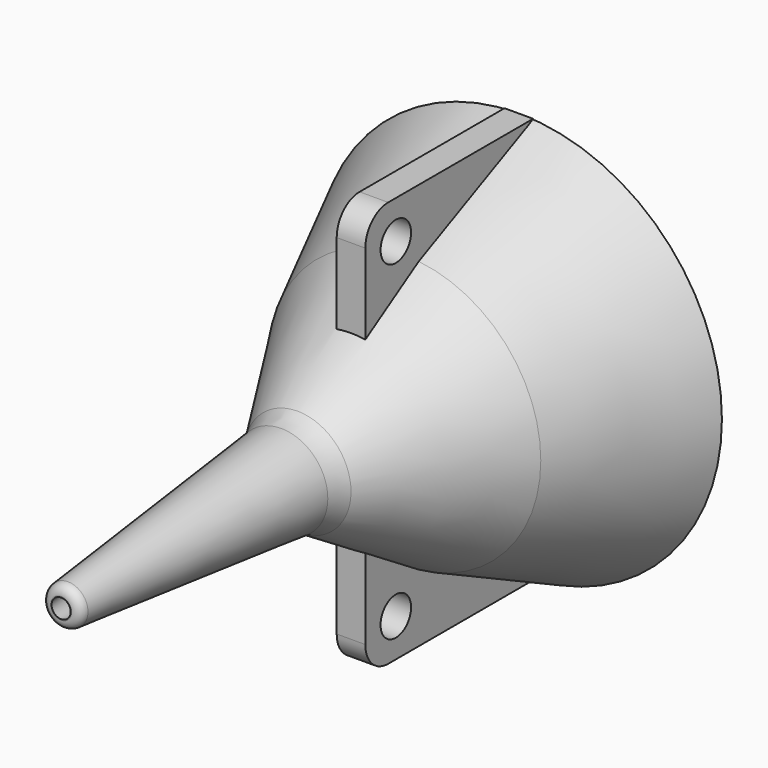
from build123d import *

# Parameters (mm, degrees)
F2_R     = 2
F3_DEPTH = 1.5
F4_R     = 1
F5_R     = 5
F6_R     = 5
F7_R     = 3


with BuildPart() as f1:
    # F0 (on Right) → F1 (revolve)
    with BuildSketch(Plane.YZ):
        Polygon((-30, 2.004988), (-30, 1), (0, 4), (15, 10.994615), (30, 17.98923), (30, 21.299364), (15, 14.304749), (0, 5.004988), align=None)
    revolve(axis=Axis((0, -9.670749, 0), (0, -1, 0)))

    # F2 (on Right) → F3 (join, symmetric)
    with BuildSketch(Plane.YZ):
        Polygon((8, 9.105201), (30, 21.3), (8, 21.3), align=None)
        with Locations((12, 17.3)):
            Circle(F2_R, mode=Mode.SUBTRACT)
        Polygon((8, -21.3), (30, -21.3), (8, -9.105201), align=None)
        with Locations((12, -17.3)):
            Circle(F2_R, mode=Mode.SUBTRACT)
    extrude(amount=F3_DEPTH, both=True)

    # F4
    f4_edges = [f1.edges().sort_by_distance(p)[0] for p in [
        (0, -30, -2.004988),
    ]]
    fillet(f4_edges, radius=F4_R)

    # F5
    f5_edges = [f1.edges().sort_by_distance(p)[0] for p in [
        (0, 0, -5.004988),
    ]]
    fillet(f5_edges, radius=F5_R)

    # F6
    f6_edges = [f1.edges().sort_by_distance(p)[0] for p in [
        (0, 0, -4),
    ]]
    fillet(f6_edges, radius=F6_R)

    # F7
    f7_edges = [f1.edges().sort_by_distance(p)[0] for p in [
        (0, 8, 21.3),
        (0, 8, -21.3),
    ]]
    fillet(f7_edges, radius=F7_R)


solid = f1.part
